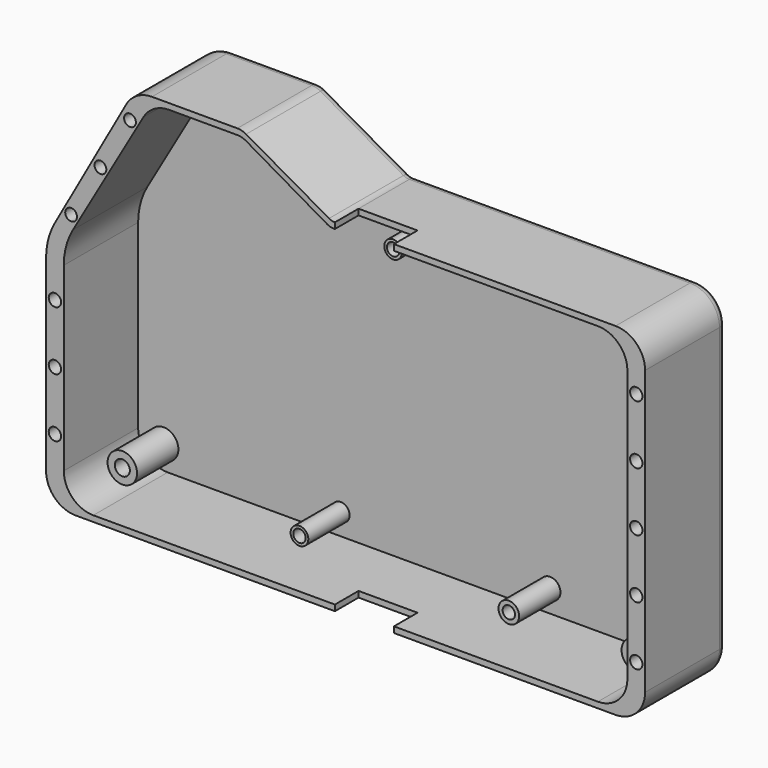
from build123d import *

# Parameters (mm, degrees)
PAD024_DEPTH    = 34.5
POCKET023_DEPTH = 31.5
SKETCH055_R     = 2.1
SKETCH055_R_2   = 2
POCKET024_DEPTH = 6.2
SKETCH057_R     = 3
SKETCH057_R_2   = 5
SKETCH057_R_3   = 3.5
PAD025_DEPTH    = 17.5
SKETCH058_R     = 2.55
SKETCH058_R_2   = 2.1
POCKET026_DEPTH = 6.2
FILLET001_R     = 3
SKETCH059_W     = 20
SKETCH059_H     = 10
POCKET027_DEPTH = 5
SKETCH060_W     = 20
SKETCH060_H     = 10
POCKET028_DEPTH = 5


with BuildPart() as part:
    # Sketch052 → Pad024 (new body)
    with BuildSketch(Plane.XZ):
        with BuildLine():
            ThreePointArc((-0.5, 13.5), (2.428932, 6.428932), (9.5, 3.5))
            Line((9.5, 3.5), (192.51, 3.5))
            ThreePointArc((192.51, 3.5), (199.581068, 6.428932), (202.51, 13.5))
            Line((202.51, 13.5), (202.51, 109.54))
            ThreePointArc((202.51, 109.54), (199.581068, 116.611068), (192.51, 119.54))
            Line((192.51, 119.54), (97.391395, 119.54))
            ThreePointArc((97.391395, 119.54), (96.36955, 119.672723), (95.415517, 120.062083))
            Line((95.415517, 120.062083), (67.291034, 136.040187))
            ThreePointArc((67.291034, 136.040187), (65.859984, 136.624227), (64.327218, 136.823311))
            Line((64.327218, 136.823311), (35.377399, 136.823311))
            ThreePointArc((35.377399, 136.823311), (30.31762, 135.448776), (26.64881, 131.703038))
            Line((26.64881, 131.703038), (2.447131, 88.412394))
            ThreePointArc((2.447131, 88.412394), (0.24888, 82.945607), (-0.5, 77.101188))
            Line((-0.5, 77.101188), (-0.5, 13.5))
        make_face()
    extrude(amount=PAD024_DEPTH)

    # Sketch054 (on Face16 of Pad024) → Pocket023 (cut)
    with BuildSketch(Plane.XZ.offset(34.5)):
        with BuildLine():
            ThreePointArc((5.5, 15.5), (8.428932, 8.428932), (15.5, 5.5))
            Line((15.5, 5.5), (186.51, 5.5))
            ThreePointArc((186.51, 5.5), (193.581068, 8.428932), (196.51, 15.5))
            Line((196.51, 15.5), (196.51, 107.54))
            ThreePointArc((196.51, 107.54), (193.581068, 114.611068), (186.51, 117.54))
            Line((186.51, 117.54), (96.852925, 117.54))
            ThreePointArc((96.852925, 117.54), (95.816521, 117.676599), (94.850903, 118.077066))
            Line((94.850903, 118.077066), (67.278075, 134.017712))
            ThreePointArc((67.278075, 134.017712), (65.829649, 134.618413), (64.275043, 134.823311))
            Line((64.275043, 134.823311), (41.153265, 134.823311))
            ThreePointArc((41.153265, 134.823311), (36.151908, 133.482781), (32.491444, 129.820596))
            Line((32.491444, 129.820596), (8.601898, 88.412711))
            ThreePointArc((8.601898, 88.412711), (6.288899, 82.824921), (5.5, 76.829005))
            Line((5.5, 76.829005), (5.5, 15.5))
        make_face()
    extrude(amount=-POCKET023_DEPTH, mode=Mode.SUBTRACT)

    # Sketch055 (on Face5 of Pocket023) → Pocket024 (cut)
    with BuildSketch(Plane.XZ.offset(34.5)):
        with Locations((199.51, 21.5)):
            Circle(SKETCH055_R)
        with Locations((199.51, 101.5)):
            Circle(SKETCH055_R)
        with Locations((199.51, 41.5)):
            Circle(SKETCH055_R)
        with Locations((199.51, 81.5)):
            Circle(SKETCH055_R)
        with Locations((199.51, 61.5)):
            Circle(SKETCH055_R)
        with Locations((2.5, 25.5)):
            Circle(SKETCH055_R)
        with Locations((2.5, 45.5)):
            Circle(SKETCH055_R)
        with Locations((2.5, 65.5)):
            Circle(SKETCH055_R)
        with Locations((7.984524, 92.743621)):
            Circle(SKETCH055_R_2)
        with Locations((17.909674, 110.107129)):
            Circle(SKETCH055_R_2)
        with Locations((27.944341, 127.407576)):
            Circle(SKETCH055_R_2)
    extrude(amount=-POCKET024_DEPTH, mode=Mode.SUBTRACT)

    # Sketch057 (on Face51 of Pocket024) → Pad025 (join)
    with BuildSketch(Plane.XZ.offset(3)):
        with Locations((74.17, 12.74)):
            Circle(SKETCH057_R)
        with Locations((64.332465, 127.473311)):
            Circle(SKETCH057_R_2)
        with Locations((105.902925, 108.54)):
            Circle(SKETCH057_R)
        with Locations((145.13, 13)):
            Circle(SKETCH057_R_3)
        with Locations((188.34, 14.18)):
            Circle(SKETCH057_R_2)
        with Locations((185.61, 111.04)):
            Circle(SKETCH057_R_2)
        with Locations((14.14, 13.53)):
            Circle(SKETCH057_R_2)
    extrude(amount=PAD025_DEPTH)

    # Sketch058 (on Face63 of Pad025) → Pocket026 (cut)
    with BuildSketch(Plane.XZ.offset(20.5)):
        with Locations((64.332465, 127.473311)):
            Circle(SKETCH058_R)
        with Locations((105.902925, 108.54)):
            Circle(SKETCH058_R_2)
        with Locations((14.14, 13.53)):
            Circle(SKETCH058_R)
        with Locations((74.17, 12.74)):
            Circle(SKETCH058_R_2)
        with Locations((145.13, 13)):
            Circle(SKETCH058_R_2)
        with Locations((188.34, 14.18)):
            Circle(SKETCH058_R)
        with Locations((185.61, 111.04)):
            Circle(SKETCH058_R)
    extrude(amount=-POCKET026_DEPTH, mode=Mode.SUBTRACT)

    # Fillet001
    fillet001_edges = [part.edges().sort_by_distance(p)[0] for p in [
        (2.428932, 0, 6.428932),
        (101.005, 0, 3.5),
        (199.581068, 0, 6.428932),
        (202.51, 0, 61.52),
        (199.581068, 0, 116.611068),
        (144.950697, 0, 119.54),
        (96.36955, 0, 119.672723),
        (81.353275, 0, 128.051135),
        (65.859984, 0, 136.624227),
        (49.852308, 0, 136.823311),
        (30.31762, 0, 135.448776),
        (14.54797, 0, 110.057716),
        (0.24888, 0, 82.945607),
        (-0.5, 0, 45.300594),
    ]]
    fillet(fillet001_edges, radius=FILLET001_R)

    # Sketch059 (on Face16 of Fillet001) → Pocket027 (cut)
    with BuildSketch(Plane(origin=(0, 0, 119.54), x_dir=(-1, 0, 0), z_dir=(0, 0, 1))):
        with Locations((-107.391395, 29.5)):
            Rectangle(SKETCH059_W, SKETCH059_H)
    extrude(amount=-POCKET027_DEPTH, mode=Mode.SUBTRACT)

    # Sketch060 (on Face5 of Pocket027) → Pocket028 (cut)
    with BuildSketch(Plane(origin=(0, 0, 3.5), x_dir=(1, 0, 0), z_dir=(0, 0, -1))):
        with Locations((107.391395, 29.5)):
            Rectangle(SKETCH060_W, SKETCH060_H)
    extrude(amount=-POCKET028_DEPTH, mode=Mode.SUBTRACT)


with BuildPart() as part_1:
    # Body006 placement: moved
    add(part.part.moved(Location((0, 20.5, 0))))


solid = part_1.part
